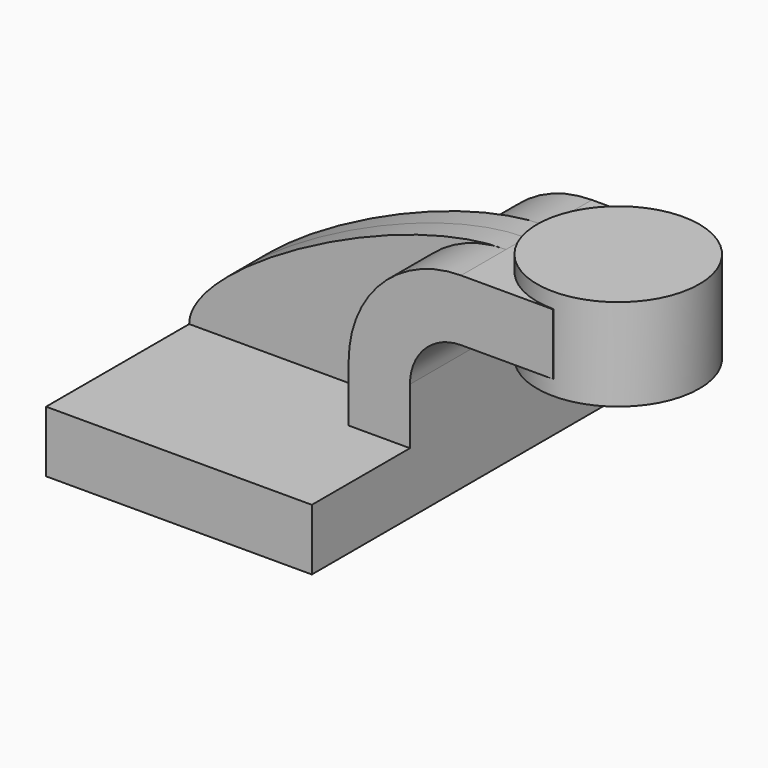
from build123d import *

# Parameters (mm, degrees)
F1_DEPTH = 63.5
F0_W     = 25.6068090757
F0_H     = 19.05
F2_DEPTH = 25.4
F3_DEPTH = 7.9375


with BuildPart() as f1:
    # F0 (on Front) → F1 (new body, symmetric)
    with BuildSketch(Plane.XZ):
        Polygon((-41.275, 9.525), (-41.275, -9.525), (41.275, -9.525), (41.275, 9.525), (22.225, 9.525), align=None)
    extrude(amount=F1_DEPTH, both=True)

    # F0 (on Front) → F2 (join, symmetric)
    with BuildSketch(Plane.XZ):
        with Locations((72.8420397361, 52.4002)):
            Rectangle(F0_W, F0_H)
        with BuildLine():
            Line((22.225, 9.525), (41.275, 9.525))
            Line((41.275, 9.525), (41.275, 27.0002))
            ThreePointArc((41.275, 27.0002), (45.9246798487, 38.2255201513), (57.15, 42.8752))
            Line((57.15, 42.8752), (60.0386351983, 42.8752))
            Line((60.0386351983, 42.8752), (60.0386351983, 61.9252))
            Line((60.0386351983, 61.9252), (57.15, 61.9252))
            ThreePointArc((57.15, 61.9252), (32.4542956671, 51.6959043329), (22.225, 27.0002))
            Line((22.225, 27.0002), (22.225, 9.525))
        make_face()
    extrude(amount=F2_DEPTH, both=True)

    # F0 (on Front) → F3 (join, symmetric)
    with BuildSketch(Plane.XZ):
        with BuildLine():
            add(Edge.make_bspline(
                [(-41.275, 9.525), (-41.275, 27.0002), (22.225, 61.9252), (57.15, 61.9252)],
                knots=[0, 0, 0, 0, 111.5045361635, 111.5045361635, 111.5045361635, 111.5045361635], degree=3))
            Line((-41.275, 9.525), (22.225, 9.525))
            Line((22.225, 9.525), (22.225, 27.0002))
            ThreePointArc((22.225, 27.0002), (32.4542956671, 51.6959043329), (57.15, 61.9252))
        make_face()
    extrude(amount=F3_DEPTH, both=True)

    # F0 (on Front) → F4 (revolve)
    with BuildSketch(Plane.XZ):
        Polygon((85.6454442739, 66.675), (85.6454442739, 61.9252), (85.6454442739, 42.8752), (85.6454442739, 38.1), (110.8386351983, 38.1), (110.8386351983, 66.675), align=None)
    revolve(axis=Axis((85.6454442739, 0, 52.3875), (0, 0, 1)))


solid = f1.part
